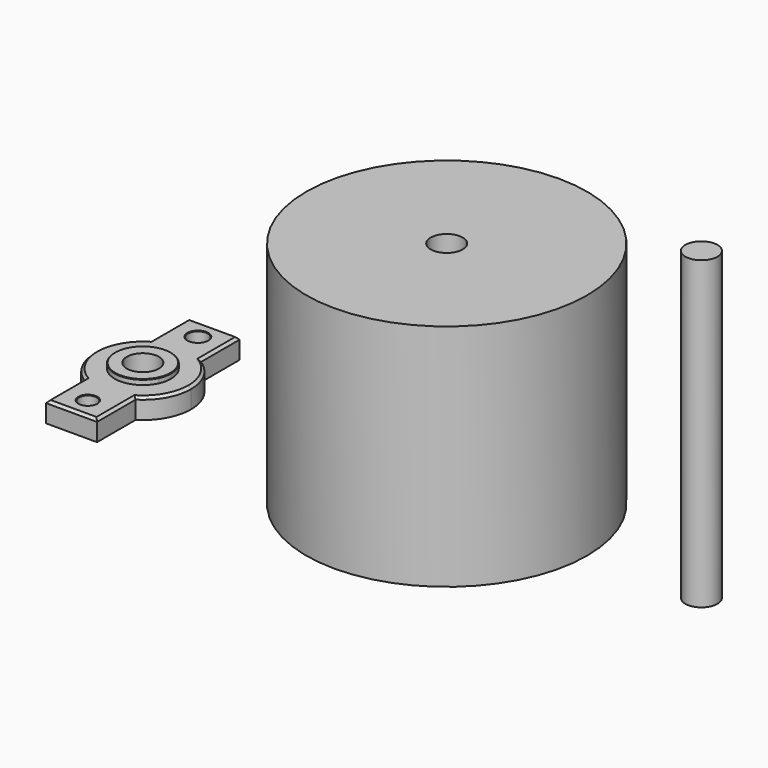
from build123d import *

# Parameters (mm, degrees)
F0_R     = 35
F0_R_2   = 4
F1_DEPTH = 57.15
F2_R     = 2.485524696
F2_R_2   = 2.243152178
F3_DEPTH = 5.08
F2_R_3   = 4
F4_DEPTH = 6.35
F5_SIZE  = 0.635
F6_SIZE  = 0.127
F7_DEPTH = 76.2


with BuildPart() as f1:
    # F0 (on Top) → F1 (new body)
    with BuildSketch(Plane.XY):
        Circle(F0_R)
        Circle(F0_R_2, mode=Mode.SUBTRACT)
    extrude(amount=F1_DEPTH)


with BuildPart() as f3:
    # F2 (on Top) → F3 (new body)
    with BuildSketch(Plane.XY):
        with BuildLine():
            ThreePointArc((-82.0991141558, 10.1822148868), (-75.7491141558, 12), (-69.3991141558, 10.1822148868))
            Line((-69.3991141558, 10.1822148868), (-69.3991141558, 22.225))
            Line((-69.3991141558, 22.225), (-82.0991141558, 22.225))
            Line((-82.0991141558, 22.225), (-82.0991141558, 10.1822148868))
        make_face()
        with Locations((-75.7491141558, 17.145)):
            Circle(F2_R, mode=Mode.SUBTRACT)
        with BuildLine():
            Line((-69.3991141558, -22.225), (-69.3991141558, -10.1822148868))
            ThreePointArc((-69.3991141558, -10.1822148868), (-75.7491141558, -12), (-82.0991141558, -10.1822148868))
            Line((-82.0991141558, -10.1822148868), (-82.0991141558, -22.225))
            Line((-82.0991141558, -22.225), (-69.3991141558, -22.225))
        make_face()
        with Locations((-75.7491141558, -17.145)):
            Circle(F2_R_2, mode=Mode.SUBTRACT)
        with BuildLine():
            Line((-69.3991141558, -10.1822148868), (-69.3991141558, -2.9457596643))
            ThreePointArc((-69.3991141558, -2.9457596643), (-75.7491141558, -7), (-82.0991141558, -2.9457596643))
            Line((-82.0991141558, -2.9457596643), (-82.0991141558, -10.1822148868))
            ThreePointArc((-82.0991141558, -10.1822148868), (-75.7491141558, -12), (-69.3991141558, -10.1822148868))
        make_face()
        with BuildLine():
            ThreePointArc((-82.0991141558, 2.9457596643), (-75.7491141558, 7), (-69.3991141558, 2.9457596643))
            Line((-69.3991141558, 2.9457596643), (-69.3991141558, 10.1822148868))
            ThreePointArc((-69.3991141558, 10.1822148868), (-75.7491141558, 12), (-82.0991141558, 10.1822148868))
            Line((-82.0991141558, 10.1822148868), (-82.0991141558, 2.9457596643))
        make_face()
        with BuildLine():
            ThreePointArc((-69.3991141558, 2.9457596643), (-68.9135454157, 1.5083103129), (-68.7491141558, 0))
            ThreePointArc((-68.7491141558, 0), (-68.9135454157, -1.5083103129), (-69.3991141558, -2.9457596643))
            Line((-69.3991141558, -2.9457596643), (-69.3991141558, -10.1822148868))
            ThreePointArc((-69.3991141558, -10.1822148868), (-65.2562594441, -5.8223706512), (-63.7491141558, 0))
            ThreePointArc((-63.7491141558, 0), (-65.2562594441, 5.8223706512), (-69.3991141558, 10.1822148868))
            Line((-69.3991141558, 10.1822148868), (-69.3991141558, 2.9457596643))
        make_face()
        with BuildLine():
            ThreePointArc((-82.0991141558, -2.9457596643), (-82.7491141558, 0), (-82.0991141558, 2.9457596643))
            Line((-82.0991141558, 2.9457596643), (-82.0991141558, 10.1822148868))
            ThreePointArc((-82.0991141558, 10.1822148868), (-87.7491141558, 0), (-82.0991141558, -10.1822148868))
            Line((-82.0991141558, -10.1822148868), (-82.0991141558, -2.9457596643))
        make_face()
    extrude(amount=F3_DEPTH)

    # F2 (on Top) → F4 (join)
    with BuildSketch(Plane.XY):
        with BuildLine():
            ThreePointArc((-69.3991141558, -2.9457596643), (-68.9135454157, -1.5083103129), (-68.7491141558, 0))
            ThreePointArc((-68.7491141558, 0), (-68.9135454157, 1.5083103129), (-69.3991141558, 2.9457596643))
            Line((-69.3991141558, 2.9457596643), (-69.3991141558, -2.9457596643))
        make_face()
        with BuildLine():
            Line((-69.3991141558, -2.9457596643), (-69.3991141558, 2.9457596643))
            ThreePointArc((-69.3991141558, 2.9457596643), (-75.7491141558, 7), (-82.0991141558, 2.9457596643))
            Line((-82.0991141558, 2.9457596643), (-82.0991141558, -2.9457596643))
            ThreePointArc((-82.0991141558, -2.9457596643), (-75.7491141558, -7), (-69.3991141558, -2.9457596643))
        make_face()
        with Locations((-75.7491141558, 0)):
            Circle(F2_R_3, mode=Mode.SUBTRACT)
        with BuildLine():
            Line((-82.0991141558, -2.9457596643), (-82.0991141558, 2.9457596643))
            ThreePointArc((-82.0991141558, 2.9457596643), (-82.7491141558, 0), (-82.0991141558, -2.9457596643))
        make_face()
    extrude(amount=F4_DEPTH)

    # F5
    f5_edges = [f3.edges().sort_by_distance(p)[0] for p in [
        (-87.749114, 0, 5.08),
        (-69.399114, -16.203607, 5.08),
        (-82.099114, -16.203607, 5.08),
        (-75.749114, -22.225, 5.08),
        (-63.749114, 0, 5.08),
        (-69.399114, 16.203607, 5.08),
        (-75.749114, 22.225, 5.08),
        (-82.099114, 16.203607, 5.08),
    ]]
    chamfer(f5_edges, length=F5_SIZE)

    # F6
    f6_edges = [f3.edges().sort_by_distance(p)[0] for p in [
        (-78.234639, 17.145, 5.08),
        (-77.992266, -17.145, 5.08),
        (-69.399114, -2.94576, 6.35),
    ]]
    chamfer(f6_edges, length=F6_SIZE)


with BuildPart() as f7:
    # F2 (on Top) → F7 (new body)
    with BuildSketch(Plane.XY):
        with Locations((63.5, 0)):
            Circle(F2_R_3)
    extrude(amount=F7_DEPTH)


solid = Compound([f1.part, f3.part, f7.part])
